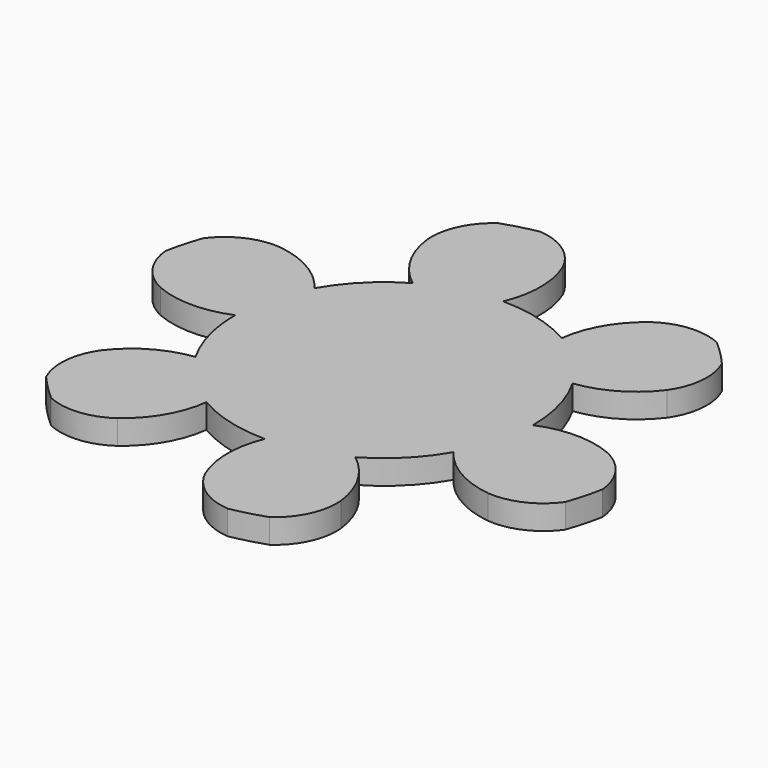
from build123d import *

# Parameters (mm, degrees)
F1_DEPTH = 7.62
F2_COUNT = 6


with BuildPart() as f1:
    # F0 (on Top) → F1 (new body)
    with BuildSketch(Plane.XY):
        with BuildLine():
            ThreePointArc((-23.27486455, 40.3132479399), (-23.27486455, -40.3132479399), (46.5497291, 0))
            ThreePointArc((46.5497291, 0), (32.915629109, 32.915629109), (0, 46.5497291))
            ThreePointArc((0, 46.5497291), (-12.0479564354, 44.9635855444), (-23.27486455, 40.3132479399))
        make_face()
        with BuildLine():
            ThreePointArc((-23.27486455, 40.3132479399), (-12.0479564354, 44.9635855444), (0, 46.5497291))
            ThreePointArc((0, 46.5497291), (2.3565249669, 58.18716455), (0, 69.8246))
            ThreePointArc((0, 69.8246), (-6.4492251901, 77.5271972193), (-15.8723170326, 81.0097034436))
            ThreePointArc((-15.8723170326, 81.0097034436), (-21.3666469486, 79.7414119995), (-26.7590219546, 78.0926196515))
            ThreePointArc((-26.7590219546, 78.0926196515), (-33.1784057603, 70.3651348711), (-34.9123, 60.4698774091))
            ThreePointArc((-34.9123, 60.4698774091), (-31.134392761, 49.213300191), (-23.27486455, 40.3132479399))
        make_face()
    extrude(amount=F1_DEPTH)

    # F2: F1 ×6 about axis
    f2_axis = Axis((0, 0, 0), (0, 0, -1))


with BuildPart() as f1_1:
    add(f1.part)
    for i in range(1, F2_COUNT):
        add(f1.part.rotate(f2_axis, i * 360 / F2_COUNT))


solid = f1_1.part
